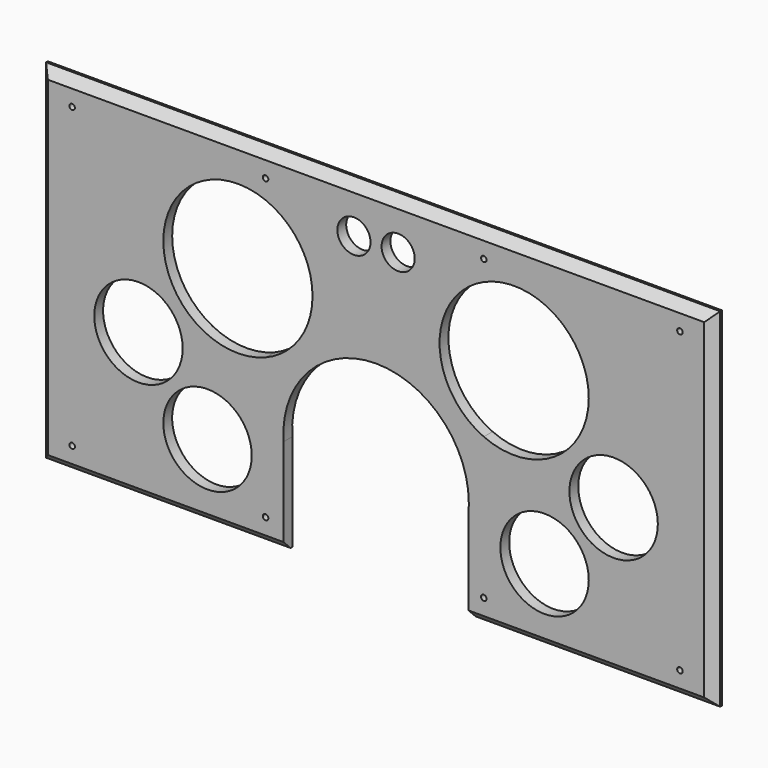
from build123d import *

# Parameters (mm, degrees)
F0_R     = 25.4
F0_R_2   = 9.525
F1_DEPTH = 6.35
F2_SIZE  = 5.08


with BuildPart() as f1:
    # F0 (on Front) → F1 (new body)
    with BuildSketch(Plane.XZ):
        with BuildLine():
            Line((109.5375, 0), (1.5875, 0))
            ThreePointArc((1.5875, 0), (1.122532, -1.122532), (0, -1.5875))
            Line((0, -1.5875), (0, -169.8625))
            ThreePointArc((0, -169.8625), (1.122532, -170.327468), (1.5875, -171.45))
            Line((1.5875, -171.45), (109.5375, -171.45))
            ThreePointArc((109.5375, -171.45), (110.002468, -170.327468), (111.125, -169.8625))
            Line((111.125, -169.8625), (111.125, -90.614297))
            ThreePointArc((111.125, -90.614297), (52.3875, -50.8), (111.125, -10.985703))
            Line((111.125, -10.985703), (111.125, -1.5875))
            ThreePointArc((111.125, -1.5875), (110.002468, -1.122532), (109.5375, 0))
        make_face()
        with Locations((77.7875, -142.875)):
            Circle(F0_R, mode=Mode.SUBTRACT)
        with Locations((38.1, -101.6)):
            Circle(F0_R, mode=Mode.SUBTRACT)
        with BuildLine():
            ThreePointArc((0, -1.5875), (-1.122532, 1.122532), (1.5875, 0))
            Line((1.5875, 0), (109.5375, 0))
            ThreePointArc((109.5375, 0), (110.002468, 1.122532), (111.125, 1.5875))
            Line((111.125, 1.5875), (111.125, 14.2875))
            Line((111.125, 14.2875), (-19.05, 14.2875))
            Line((-19.05, 14.2875), (-19.05, -185.7375))
            Line((-19.05, -185.7375), (121.44375, -185.7375))
            Line((121.44375, -185.7375), (121.44375, -129.918501))
            ThreePointArc((121.44375, -129.918501), (135.685573, -89.928697), (174.625, -73.025))
            Line((174.625, -73.025), (174.625, 0))
            Line((174.625, 0), (112.7125, 0))
            ThreePointArc((112.7125, 0), (112.247532, -1.122532), (111.125, -1.5875))
            Line((111.125, -1.5875), (111.125, -10.985703))
            ThreePointArc((111.125, -10.985703), (130.729826, -26.750554), (138.1125, -50.8))
            ThreePointArc((138.1125, -50.8), (130.729826, -74.849446), (111.125, -90.614297))
            Line((111.125, -90.614297), (111.125, -169.8625))
            ThreePointArc((111.125, -169.8625), (112.247532, -170.327468), (112.7125, -171.45))
            ThreePointArc((112.7125, -171.45), (111.125, -173.0375), (109.5375, -171.45))
            Line((109.5375, -171.45), (1.5875, -171.45))
            ThreePointArc((1.5875, -171.45), (-1.122532, -172.572532), (0, -169.8625))
            Line((0, -169.8625), (0, -1.5875))
        make_face()
        with Locations((161.925, -12.7)):
            Circle(F0_R_2, mode=Mode.SUBTRACT)
        with BuildLine():
            Line((234.95, 0), (174.625, 0))
            Line((174.625, 0), (174.625, -73.025))
            ThreePointArc((174.625, -73.025), (212.315461, -88.6369), (227.927361, -126.327361))
            ThreePointArc((227.927361, -126.327361), (227.897074, -128.123951), (227.80625, -129.918501))
            Line((227.80625, -129.918501), (227.80625, -185.7375))
            Line((227.80625, -185.7375), (368.3, -185.7375))
            Line((368.3, -185.7375), (368.3, 14.2875))
            Line((368.3, 14.2875), (236.5375, 14.2875))
            Line((236.5375, 14.2875), (236.5375, 1.5875))
            ThreePointArc((236.5375, 1.5875), (237.660032, 1.122532), (238.125, 0))
            Line((238.125, 0), (347.6625, 0))
            ThreePointArc((347.6625, 0), (349.25, 1.5875), (350.8375, 0))
            ThreePointArc((350.8375, 0), (350.372532, -1.122532), (349.25, -1.5875))
            Line((349.25, -1.5875), (349.25, -169.8625))
            ThreePointArc((349.25, -169.8625), (350.372532, -170.327468), (350.8375, -171.45))
            ThreePointArc((350.8375, -171.45), (349.25, -173.0375), (347.6625, -171.45))
            Line((347.6625, -171.45), (238.125, -171.45))
            ThreePointArc((238.125, -171.45), (235.414968, -172.572532), (236.5375, -169.8625))
            Line((236.5375, -169.8625), (236.5375, -89.944029))
            ThreePointArc((236.5375, -89.944029), (211.1375, -50.8), (236.5375, -11.655971))
            Line((236.5375, -11.655971), (236.5375, -1.5875))
            ThreePointArc((236.5375, -1.5875), (235.414968, -1.122532), (234.95, 0))
        make_face()
        with Locations((187.325, -12.7)):
            Circle(F0_R_2, mode=Mode.SUBTRACT)
        with BuildLine():
            Line((111.125, 14.2875), (111.125, 1.5875))
            ThreePointArc((111.125, 1.5875), (112.247532, 1.122532), (112.7125, 0))
            Line((112.7125, 0), (174.625, 0))
            Line((174.625, 0), (234.95, 0))
            ThreePointArc((234.95, 0), (235.414968, 1.122532), (236.5375, 1.5875))
            Line((236.5375, 1.5875), (236.5375, 14.2875))
            Line((236.5375, 14.2875), (111.125, 14.2875))
        make_face()
        with BuildLine():
            ThreePointArc((238.125, 0), (237.660032, -1.122532), (236.5375, -1.5875))
            Line((236.5375, -1.5875), (236.5375, -11.655971))
            ThreePointArc((236.5375, -11.655971), (277.33139, -14.843914), (296.8625, -50.8))
            ThreePointArc((296.8625, -50.8), (277.33139, -86.756086), (236.5375, -89.944029))
            Line((236.5375, -89.944029), (236.5375, -169.8625))
            ThreePointArc((236.5375, -169.8625), (237.660032, -170.327468), (238.125, -171.45))
            Line((238.125, -171.45), (347.6625, -171.45))
            ThreePointArc((347.6625, -171.45), (348.127468, -170.327468), (349.25, -169.8625))
            Line((349.25, -169.8625), (349.25, -1.5875))
            ThreePointArc((349.25, -1.5875), (348.127468, -1.122532), (347.6625, 0))
            Line((347.6625, 0), (238.125, 0))
        make_face()
        with Locations((271.4625, -142.875)):
            Circle(F0_R, mode=Mode.SUBTRACT)
        with Locations((311.15, -101.6)):
            Circle(F0_R, mode=Mode.SUBTRACT)
    extrude(amount=F1_DEPTH)

    # F2
    f2_edges = [f1.edges().sort_by_distance(p)[0] for p in [
        (174.625, -6.35, 14.2875),
        (298.053125, -6.35, -185.7375),
        (368.3, -6.35, -85.725),
        (51.196875, -6.35, -185.7375),
        (-19.05, -6.35, -85.725),
    ]]
    chamfer(f2_edges, length=F2_SIZE)


solid = f1.part
